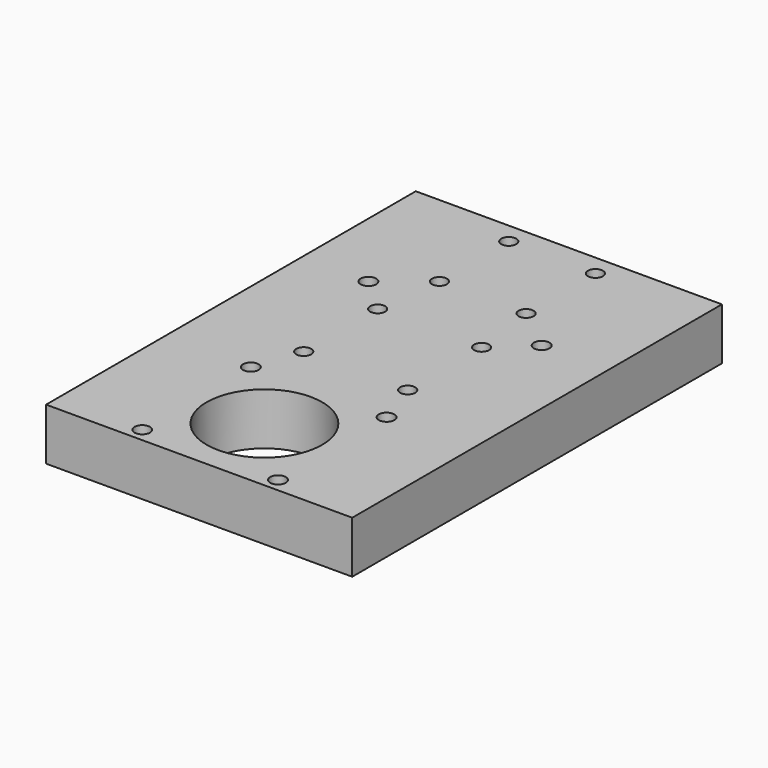
from build123d import *

# Parameters (mm, degrees)
PAD_DEPTH            = 18
SKETCH_R             = 2.6
POCKET_DEPTH         = 339.017224
POCKET_DEPTH_BACK    = 357.017224
SKETCH001_R          = 2.6
POCKET001_DEPTH      = 339.017224
POCKET001_DEPTH_BACK = 357.017224
SKETCH002_R          = 20
POCKET002_DEPTH      = 339.017224
POCKET002_DEPTH_BACK = 357.017224
SKETCH004_R          = 2.7
POCKET003_DEPTH      = 339.017224
POCKET003_DEPTH_BACK = 357.017224
SKETCH005_R          = 2.7
POCKET004_DEPTH      = 339.017224
POCKET004_DEPTH_BACK = 357.017224


with BuildPart() as part:
    # Sketch003 → Pad (new body)
    with BuildSketch(Plane.XY):
        Polygon((0, 92.25), (53, 92.25), (53, -67.75), (0, -67.75), (0, 0), align=None)
    pad = extrude(amount=PAD_DEPTH)

    # Sketch → Pocket (cut, two sides)
    with BuildSketch(Plane(origin=(18, 0, 0), x_dir=(1, 0, 0), z_dir=(0, 0, 1))) as pocket_sk:
        Circle(SKETCH_R)
        with Locations((0, 32)):
            Circle(SKETCH_R)
    pocket = extrude(amount=-POCKET_DEPTH, mode=Mode.SUBTRACT) + extrude(pocket_sk.sketch, amount=POCKET_DEPTH_BACK, mode=Mode.SUBTRACT)

    # Sketch001 → Pocket001 (cut, two sides)
    with BuildSketch(Plane(origin=(15, 55, 0), x_dir=(1, 0, 0), z_dir=(0, 0, 1))) as pocket001_sk:
        Circle(SKETCH001_R)
        with Locations((0, 30)):
            Circle(SKETCH001_R)
    pocket001 = extrude(amount=-POCKET001_DEPTH, mode=Mode.SUBTRACT) + extrude(pocket001_sk.sketch, amount=POCKET001_DEPTH_BACK, mode=Mode.SUBTRACT)

    # Sketch002 → Pocket002 (cut, two sides)
    with BuildSketch(Plane(origin=(0, -39.5, 0), x_dir=(1, 0, 0), z_dir=(0, 0, 1))) as pocket002_sk:
        Circle(SKETCH002_R)
    pocket002 = extrude(amount=-POCKET002_DEPTH, mode=Mode.SUBTRACT) + extrude(pocket002_sk.sketch, amount=POCKET002_DEPTH_BACK, mode=Mode.SUBTRACT)

    # Sketch004 → Pocket003 (cut, two sides)
    with BuildSketch(Plane(origin=(23.5, -39.5, 0), x_dir=(1, 0, 0), z_dir=(0, 0, 1))) as pocket003_sk:
        with Locations((0, 23.5)):
            Circle(SKETCH004_R)
        with Locations((0, -23.5)):
            Circle(SKETCH004_R)
    pocket003 = extrude(amount=-POCKET003_DEPTH, mode=Mode.SUBTRACT) + extrude(pocket003_sk.sketch, amount=POCKET003_DEPTH_BACK, mode=Mode.SUBTRACT)

    # Sketch005 → Pocket004 (cut, two sides)
    with BuildSketch(Plane(origin=(30, 43, 0), x_dir=(1, 0, 0), z_dir=(0, 0, 1))) as pocket004_sk:
        Circle(SKETCH005_R)
    pocket004 = extrude(amount=-POCKET004_DEPTH, mode=Mode.SUBTRACT) + extrude(pocket004_sk.sketch, amount=POCKET004_DEPTH_BACK, mode=Mode.SUBTRACT)

    # Mirrored: Pad, Pocket, Pocket001, Pocket002, Pocket003, Pocket004 across Sketch003 V_Axis
    add(pad.mirror(Plane(origin=(0, 0, 0), x_dir=(0, 0, 1), z_dir=(1, 0, 0))))
    add(pocket.mirror(Plane(origin=(0, 0, 0), x_dir=(0, 0, 1), z_dir=(1, 0, 0))), mode=Mode.SUBTRACT)
    add(pocket001.mirror(Plane(origin=(0, 0, 0), x_dir=(0, 0, 1), z_dir=(1, 0, 0))), mode=Mode.SUBTRACT)
    add(pocket002.mirror(Plane(origin=(0, 0, 0), x_dir=(0, 0, 1), z_dir=(1, 0, 0))), mode=Mode.SUBTRACT)
    add(pocket003.mirror(Plane(origin=(0, 0, 0), x_dir=(0, 0, 1), z_dir=(1, 0, 0))), mode=Mode.SUBTRACT)
    add(pocket004.mirror(Plane(origin=(0, 0, 0), x_dir=(0, 0, 1), z_dir=(1, 0, 0))), mode=Mode.SUBTRACT)


solid = part.part
